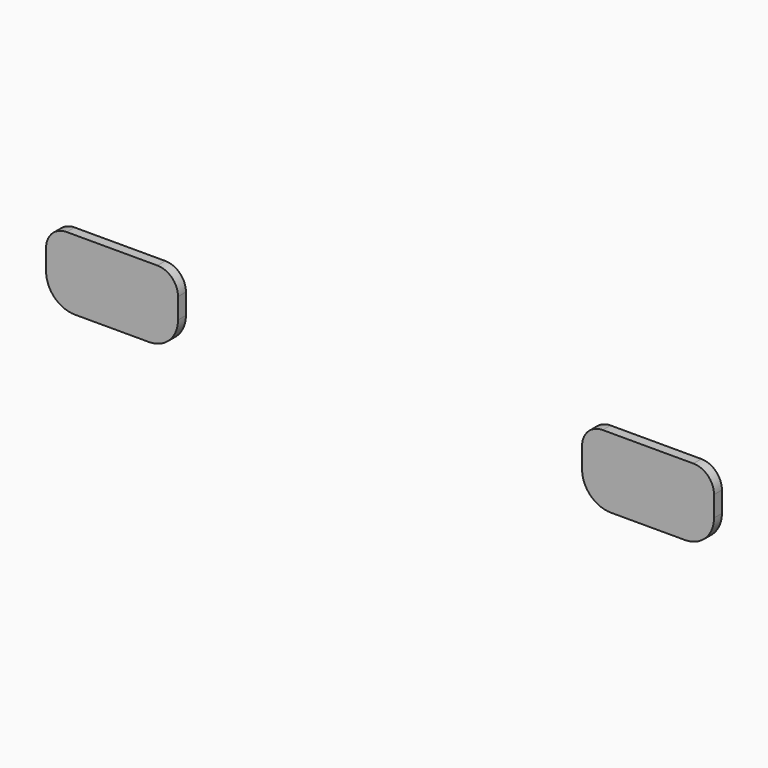
from build123d import *

# Parameters (mm, degrees)
EXTRUDE018_DEPTH = 0.6
EXTRUDE019_DEPTH = 0.6


with BuildPart() as buttoncuts:
    # Sketch018 → Extrude018 (new body)
    with BuildSketch(Plane.XZ):
        with BuildLine():
            ThreePointArc((11.8, 16.7), (10.916117, 16.333883), (10.55, 15.45))
            Line((10.55, 14.2), (10.55, 15.45))
            ThreePointArc((10.55, 14.2), (11.062563, 12.962563), (12.3, 12.45))
            Line((16.8, 12.45), (12.3, 12.45))
            ThreePointArc((16.8, 12.45), (18.037437, 12.962563), (18.55, 14.2))
            Line((18.55, 15.45), (18.55, 14.2))
            ThreePointArc((18.55, 15.45), (18.183883, 16.333883), (17.3, 16.7))
            Line((11.8, 16.7), (17.3, 16.7))
        make_face()
    extrude(amount=EXTRUDE018_DEPTH)


with BuildPart() as buttoncuts_1:
    # Extrude018 placement: moved
    add(buttoncuts.part.moved(Location((0, 2, 0))))


with BuildPart() as buttoncuts002:
    # Sketch019 → Extrude019 (new body)
    with BuildSketch(Plane.XZ):
        with BuildLine():
            ThreePointArc((11.8, 16.7), (10.916117, 16.333883), (10.55, 15.45))
            Line((10.55, 14.2), (10.55, 15.45))
            ThreePointArc((10.55, 14.2), (11.062563, 12.962563), (12.3, 12.45))
            Line((16.8, 12.45), (12.3, 12.45))
            ThreePointArc((16.8, 12.45), (18.037437, 12.962563), (18.55, 14.2))
            Line((18.55, 15.45), (18.55, 14.2))
            ThreePointArc((18.55, 15.45), (18.183883, 16.333883), (17.3, 16.7))
            Line((11.8, 16.7), (17.3, 16.7))
        make_face()
    extrude(amount=EXTRUDE019_DEPTH)


with BuildPart() as buttoncuts002_1:
    # Extrude019 placement: moved
    add(buttoncuts002.part.moved(Location((32.5, 2, 0))))

    # Fusion022: union buttonCuts
    add(buttoncuts_1.part)


solid = buttoncuts002_1.part
